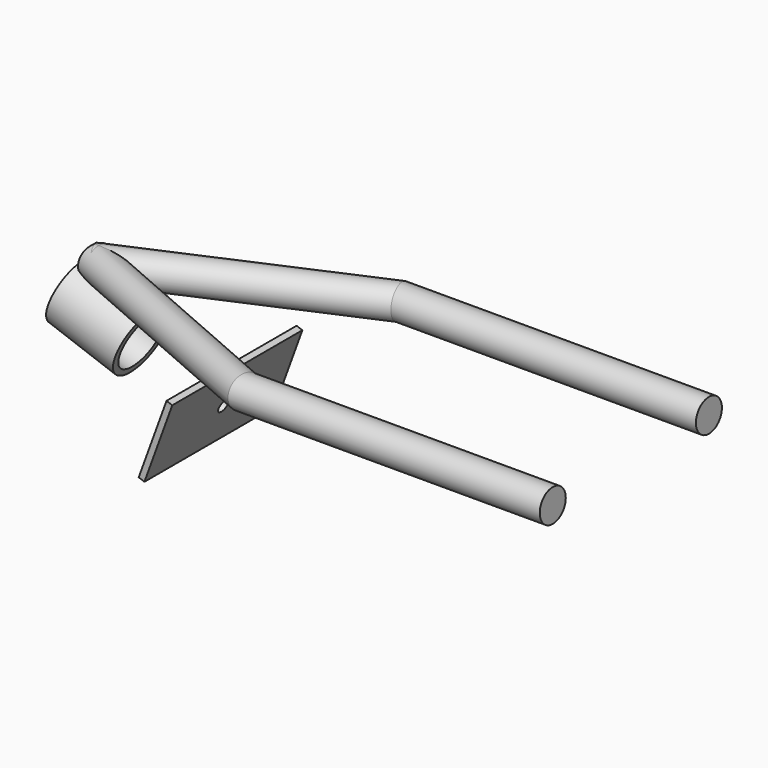
from build123d import *

# Parameters (mm, degrees)
F2_R      = 8
F8_R      = 16
F8_R_2    = 13
F9_DEPTH  = 35
F12_W     = 80
F12_H     = 40
F12_R     = 3
F13_DEPTH = 3


with BuildPart() as f3:
    # F3: sweep along a path in F0
    with BuildLine(Plane.XY) as f3_path:
        Line((150, -48), (-1.6696972202, -48))
        Line((-1.6696972202, -48), (-113.4366041888, 0.7790772738))
    # F2 (on line) → F3 (sweep)
    with BuildSketch(Plane.YZ.offset(150)):
        with Locations((-48, 0)):
            Circle(F2_R)
    sweep(path=f3_path.line, transition=Transition.RIGHT)

    # F4: sweep along a path in F0
    with BuildLine(Plane.XY) as f4_path:
        Line((150, 48), (-1.6696972202, 48))
        Line((-1.6696972202, 48), (-113.4366041888, -0.7790772738))
    # F2 (on line) → F4 (sweep)
    with BuildSketch(Plane.YZ.offset(150)):
        with Locations((48, 0)):
            Circle(F2_R)
    sweep(path=f4_path.line, transition=Transition.RIGHT)


with BuildPart() as f9:
    # F8 (on line) → F9 (new body)
    with BuildSketch(Plane(origin=(-104.4226389321, 0, 38.0067323548), x_dir=(0, 1, 0), z_dir=(0.9396926208, 0, -0.3420201433))):
        with Locations((0, -56.3466639198)):
            Circle(F8_R)
        with Locations((0, -56.3466639198)):
            Circle(F8_R_2, mode=Mode.SUBTRACT)
    extrude(amount=F9_DEPTH)


with BuildPart() as f13:
    # F12 (on offset) → F13 (new body)
    with BuildSketch(Plane(origin=(-33.9456923732, 0, 12.3552216054), x_dir=(0, 1, 0), z_dir=(0.9396926208, 0, -0.3420201433))):
        with Locations((0, -56.3466639198)):
            Rectangle(F12_W, F12_H)
        with Locations((0, -56.3466639198)):
            Circle(F12_R, mode=Mode.SUBTRACT)
    extrude(amount=F13_DEPTH)


solid = Compound([f3.part, f9.part, f13.part])
